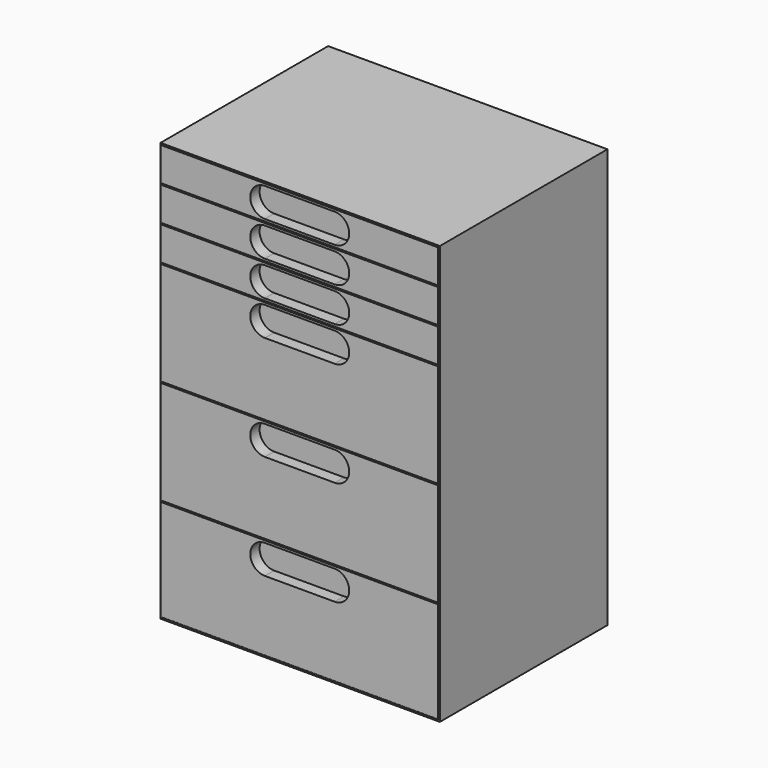
from build123d import *

# Parameters (mm, degrees)
F0_W     = 609.6
F0_H     = 457.2
F1_DEPTH = 914.4
F2_W     = 603.25
F2_H     = 908.05
F3_DEPTH = 452.755
F4_W     = 603.25
F4_H     = 73.025
F4_H_2   = 225.425
F4_H_3   = 220.98
F5_DEPTH = 454.025
F7_DEPTH = 25.4


with BuildPart() as f1:
    # F0 (on Top) → F1 (new body)
    with BuildSketch(Plane.XY):
        Rectangle(F0_W, F0_H)
    extrude(amount=F1_DEPTH)

    # F2 (on face) → F3 (cut)
    with BuildSketch(Plane.XZ.offset(228.6)):
        with Locations((0, 457.2)):
            Rectangle(F2_W, F2_H)
    extrude(amount=-F3_DEPTH, mode=Mode.SUBTRACT)

    # F4 (on face) → F5 (join)
    with BuildSketch(Plane.XZ.offset(-224.155)):
        with Locations((0, 874.7125)):
            Rectangle(F4_W, F4_H)
        with Locations((0, 798.5125)):
            Rectangle(F4_W, F4_H)
        with Locations((0, 722.3125)):
            Rectangle(F4_W, F4_H)
        with Locations((0, 569.9125)):
            Rectangle(F4_W, F4_H_2)
        with Locations((0, 341.3125)):
            Rectangle(F4_W, F4_H_2)
        with Locations((0, 114.935)):
            Rectangle(F4_W, F4_H_3)
    extrude(amount=F5_DEPTH)

    # F6 (on face) → F7 (cut)
    with BuildSketch(Plane.XZ.offset(229.87)):
        with BuildLine():
            Line((76.2, 906.4625), (0, 906.4625))
            Line((0, 906.4625), (0, 842.9625))
            Line((0, 842.9625), (76.2, 842.9625))
            ThreePointArc((76.2, 842.9625), (107.95, 874.7125), (76.2, 906.4625))
        make_face()
        with BuildLine():
            Line((0, 842.9625), (0, 906.4625))
            Line((0, 906.4625), (-76.2, 906.4625))
            ThreePointArc((-76.2, 906.4625), (-107.95, 874.7125), (-76.2, 842.9625))
            Line((-76.2, 842.9625), (0, 842.9625))
        make_face()
        with BuildLine():
            Line((76.2, 220.6498), (0, 220.6498))
            Line((0, 220.6498), (0, 157.1498))
            Line((0, 157.1498), (76.2, 157.1498))
            ThreePointArc((76.2, 157.1498), (107.95, 188.8998), (76.2, 220.6498))
        make_face()
        with BuildLine():
            Line((0, 157.1498), (0, 220.6498))
            Line((0, 220.6498), (-76.2, 220.6498))
            ThreePointArc((-76.2, 220.6498), (-107.95, 188.8998), (-76.2, 157.1498))
            Line((-76.2, 157.1498), (0, 157.1498))
        make_face()
        with BuildLine():
            Line((76.2, 449.2498), (0, 449.2498))
            Line((0, 449.2498), (0, 385.7498))
            Line((0, 385.7498), (76.2, 385.7498))
            ThreePointArc((76.2, 385.7498), (107.95, 417.4998), (76.2, 449.2498))
        make_face()
        with BuildLine():
            Line((0, 385.7498), (0, 449.2498))
            Line((0, 449.2498), (-76.2, 449.2498))
            ThreePointArc((-76.2, 449.2498), (-107.95, 417.4998), (-76.2, 385.7498))
            Line((-76.2, 385.7498), (0, 385.7498))
        make_face()
        with BuildLine():
            Line((76.2, 677.8498), (0, 677.8498))
            Line((0, 677.8498), (0, 614.3498))
            Line((0, 614.3498), (76.2, 614.3498))
            ThreePointArc((76.2, 614.3498), (107.95, 646.0998), (76.2, 677.8498))
        make_face()
        with BuildLine():
            Line((0, 614.3498), (0, 677.8498))
            Line((0, 677.8498), (-76.2, 677.8498))
            ThreePointArc((-76.2, 677.8498), (-107.95, 646.0998), (-76.2, 614.3498))
            Line((-76.2, 614.3498), (0, 614.3498))
        make_face()
        with BuildLine():
            Line((76.2, 754.0498), (0, 754.0498))
            Line((0, 754.0498), (0, 690.5498))
            Line((0, 690.5498), (76.2, 690.5498))
            ThreePointArc((76.2, 690.5498), (107.95, 722.2998), (76.2, 754.0498))
        make_face()
        with BuildLine():
            Line((0, 690.5498), (0, 754.0498))
            Line((0, 754.0498), (-76.2, 754.0498))
            ThreePointArc((-76.2, 754.0498), (-107.95, 722.2998), (-76.2, 690.5498))
            Line((-76.2, 690.5498), (0, 690.5498))
        make_face()
        with BuildLine():
            Line((76.2, 830.2498), (0, 830.2498))
            Line((0, 830.2498), (0, 766.7498))
            Line((0, 766.7498), (76.2, 766.7498))
            ThreePointArc((76.2, 766.7498), (107.95, 798.4998), (76.2, 830.2498))
        make_face()
        with BuildLine():
            Line((0, 766.7498), (0, 830.2498))
            Line((0, 830.2498), (-76.2, 830.2498))
            ThreePointArc((-76.2, 830.2498), (-107.95, 798.4998), (-76.2, 766.7498))
            Line((-76.2, 766.7498), (0, 766.7498))
        make_face()
    extrude(amount=-F7_DEPTH, mode=Mode.SUBTRACT)


solid = f1.part
